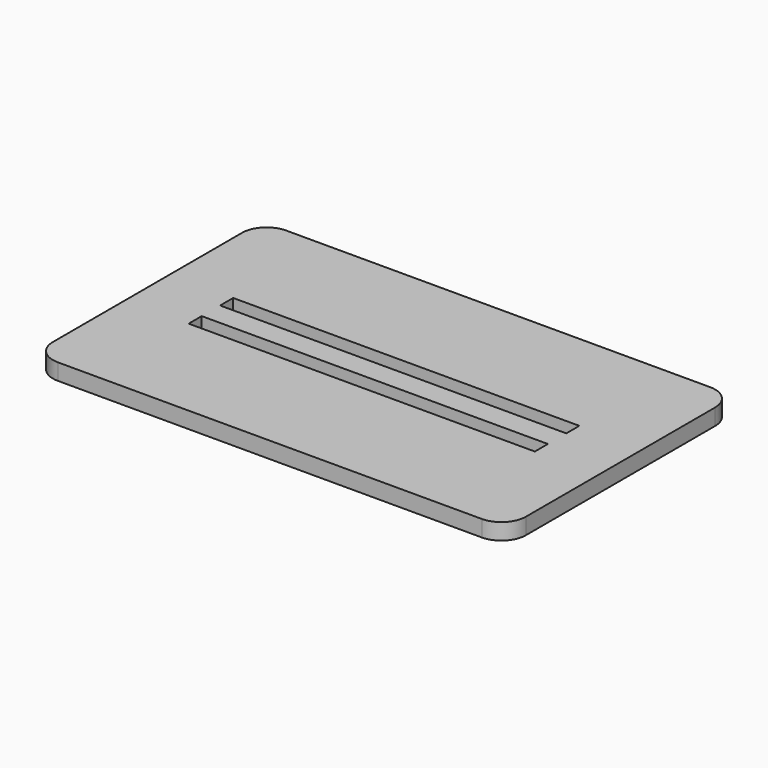
from build123d import *

# Parameters (mm, degrees)
F0_W     = 58
F0_H     = 35
F0_W_2   = 42.448143
F0_H_2   = 2
F1_DEPTH = 2
F2_R     = 3


with BuildPart() as f1:
    # F0 (on Top) → F1 (new body)
    with BuildSketch(Plane.XY):
        with Locations((-36.713654, 34.063472)):
            Rectangle(F0_W, F0_H)
        with Locations((-36.713654, 31.653472)):
            Rectangle(F0_W_2, F0_H_2, mode=Mode.SUBTRACT)
        with Locations((-36.713654, 36.473472)):
            Rectangle(F0_W_2, F0_H_2, mode=Mode.SUBTRACT)
    extrude(amount=F1_DEPTH)

    # F2
    f2_edges = [f1.edges().sort_by_distance(p)[0] for p in [
        (-7.713654, 51.563472, 1),
        (-65.713654, 16.563472, 1),
        (-65.713654, 51.563472, 1),
        (-7.713654, 16.563472, 1),
    ]]
    fillet(f2_edges, radius=F2_R)


solid = f1.part
